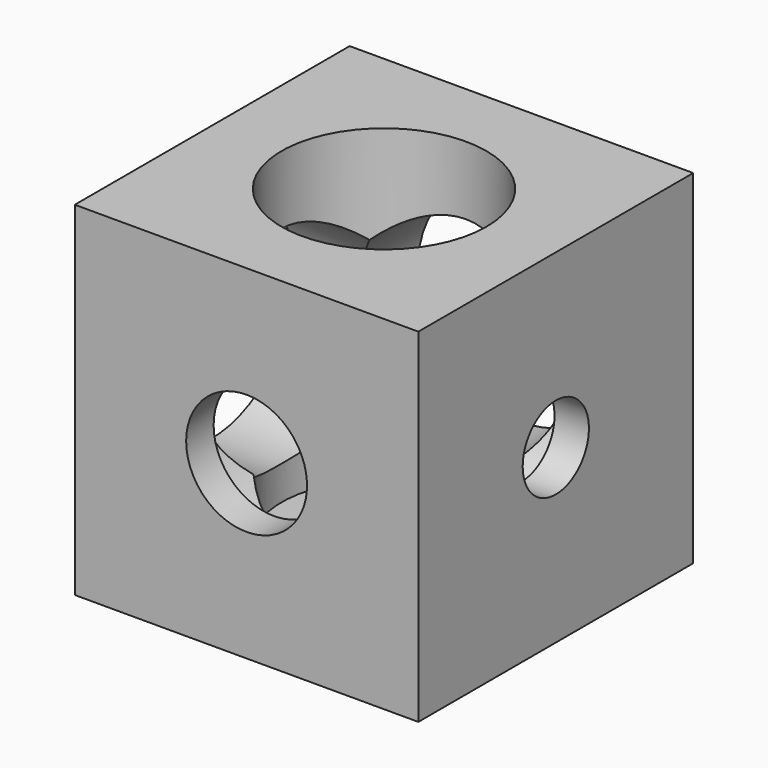
from build123d import *

# Parameters (mm, degrees)
SKETCH060_W     = 20
SKETCH060_H     = 20
PAD021_DEPTH    = 10
SKETCH061_R     = 5.966215
POCKET036_DEPTH = 18
SKETCH062_R     = 2.581292
POCKET037_DEPTH = 2
SKETCH063_R     = 6.020554
POCKET038_DEPTH = 18
SKETCH064_R     = 3.518198
POCKET039_DEPTH = 2
SKETCH065_R     = 6.023017
POCKET040_DEPTH = 18
SKETCH066_R     = 2.40921
POCKET041_DEPTH = 2


with BuildPart() as part:
    # Sketch060 → Pad021 (new body, symmetric)
    with BuildSketch(Plane(origin=(0, 451.8, 451.8), x_dir=(1, 0, 0), z_dir=(0, 0, -1))):
        Rectangle(SKETCH060_W, SKETCH060_H)
    extrude(amount=PAD021_DEPTH, both=True)

    # Sketch061 → Pocket036 (cut)
    with BuildSketch(Plane(origin=(0, 451.8, 461.8), x_dir=(1, 0, 0), z_dir=(0, 0, 1))):
        Circle(SKETCH061_R)
    extrude(amount=-POCKET036_DEPTH, mode=Mode.SUBTRACT)

    # Sketch062 → Pocket037 (cut)
    with BuildSketch(Plane(origin=(0, 451.8, 441.8), x_dir=(1, 0, 0), z_dir=(0, 0, -1))):
        Circle(SKETCH062_R)
    extrude(amount=-POCKET037_DEPTH, mode=Mode.SUBTRACT)

    # Sketch063 → Pocket038 (cut)
    with BuildSketch(Plane(origin=(0, 461.8, 451.8), x_dir=(1, 0, 0), z_dir=(0, 1, 0))):
        Circle(SKETCH063_R)
    extrude(amount=-POCKET038_DEPTH, mode=Mode.SUBTRACT)

    # Sketch064 → Pocket039 (cut)
    with BuildSketch(Plane(origin=(0, 441.8, 451.8), x_dir=(-1, 0, 0), z_dir=(0, -1, 0))):
        Circle(SKETCH064_R)
    extrude(amount=-POCKET039_DEPTH, mode=Mode.SUBTRACT)

    # Sketch065 → Pocket040 (cut)
    with BuildSketch(Plane(origin=(-10, 451.8, 451.8), x_dir=(0, 1, 0), z_dir=(-1, 0, 0))):
        Circle(SKETCH065_R)
    extrude(amount=-POCKET040_DEPTH, mode=Mode.SUBTRACT)

    # Sketch066 → Pocket041 (cut)
    with BuildSketch(Plane(origin=(10, 451.8, 451.8), x_dir=(0, -1, 0), z_dir=(1, 0, 0))):
        Circle(SKETCH066_R)
    extrude(amount=-POCKET041_DEPTH, mode=Mode.SUBTRACT)


solid = part.part
